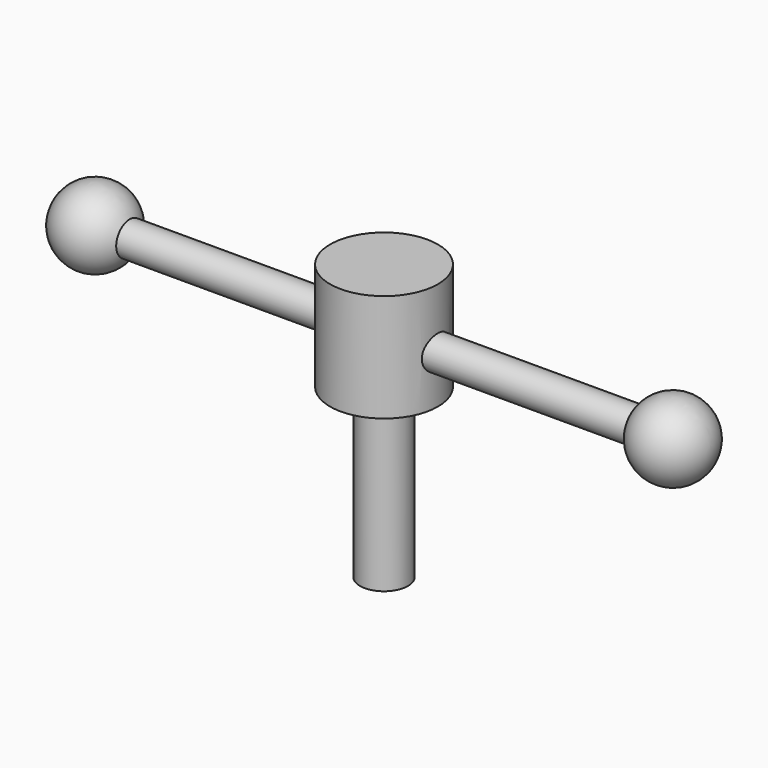
from build123d import *

# Parameters (mm, degrees)
F0_R     = 14.2875
F1_DEPTH = 14.2875
F2_R     = 6.35
F3_DEPTH = 44.45
F4_R     = 4.445
F5_DEPTH = 76.2


with BuildPart() as f1:
    # F0 (on Top) → F1 (new body, symmetric)
    with BuildSketch(Plane.XY):
        Circle(F0_R)
    extrude(amount=F1_DEPTH, both=True)

    # F2 (on face) → F3 (join)
    with BuildSketch(Plane(origin=(0, 0, -14.2875), x_dir=(1, 0, 0), z_dir=(0, 0, -1))):
        Circle(F2_R)
    extrude(amount=F3_DEPTH)

    # F4 (on Right) → F5 (join, symmetric)
    with BuildSketch(Plane.YZ):
        with Locations((0, -1.5875)):
            Circle(F4_R)
    extrude(amount=F5_DEPTH, both=True)

    # F6 (on Front) → F7 (revolve)
    with BuildSketch(Plane.XZ):
        with BuildLine():
            Line((-86.73837, -1.5875), (-66.41837, -1.5875))
            ThreePointArc((-66.41837, -1.5875), (-76.57837, 8.5725), (-86.73837, -1.5875))
        make_face()
        with BuildLine():
            ThreePointArc((86.73837, -1.5875), (76.57837, 8.5725), (66.41837, -1.5875))
            Line((66.41837, -1.5875), (86.73837, -1.5875))
        make_face()
    revolve(axis=Axis((-76.57837, 0, -1.5875), (-1, 0, 0)))


solid = f1.part
